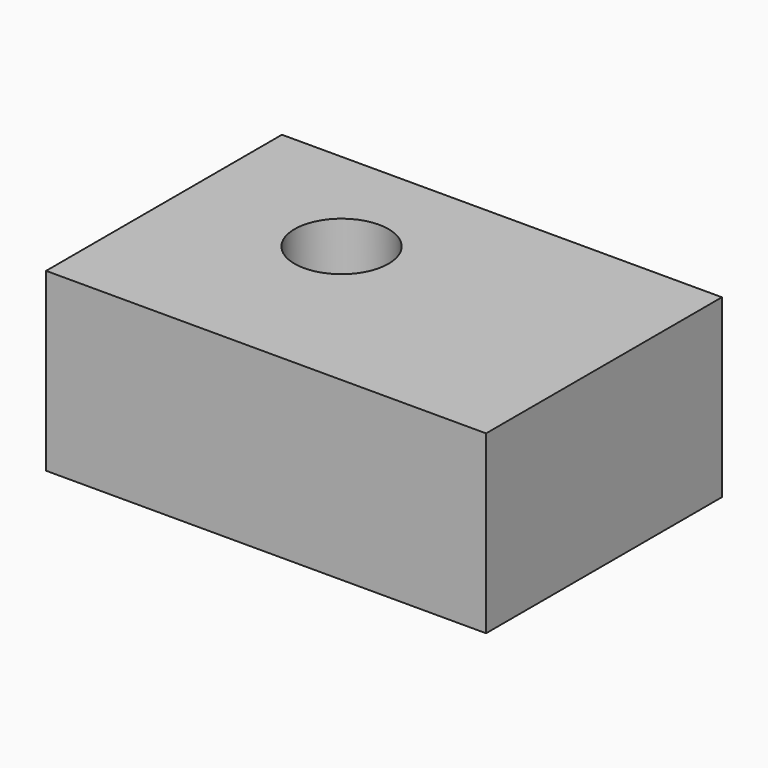
from build123d import *

# Parameters (mm, degrees)
F0_W     = 127
F0_H     = 50.8
F1_DEPTH = 85.09
F3_R     = 13.5622431152
F4_DEPTH = 73.914


with BuildPart() as f1:
    # F0 (on Front) → F1 (new body)
    with BuildSketch(Plane.XZ):
        with Locations((-36.1398326457, 12.9770052895)):
            Rectangle(F0_W, F0_H)
    extrude(amount=F1_DEPTH)

    # F3 (on face) → F4 (cut)
    with BuildSketch(Plane.XY.offset(38.3770052895)):
        with Locations((-55.075917393, -34.1837741435)):
            Circle(F3_R)
    extrude(amount=-F4_DEPTH, mode=Mode.SUBTRACT)


solid = f1.part
